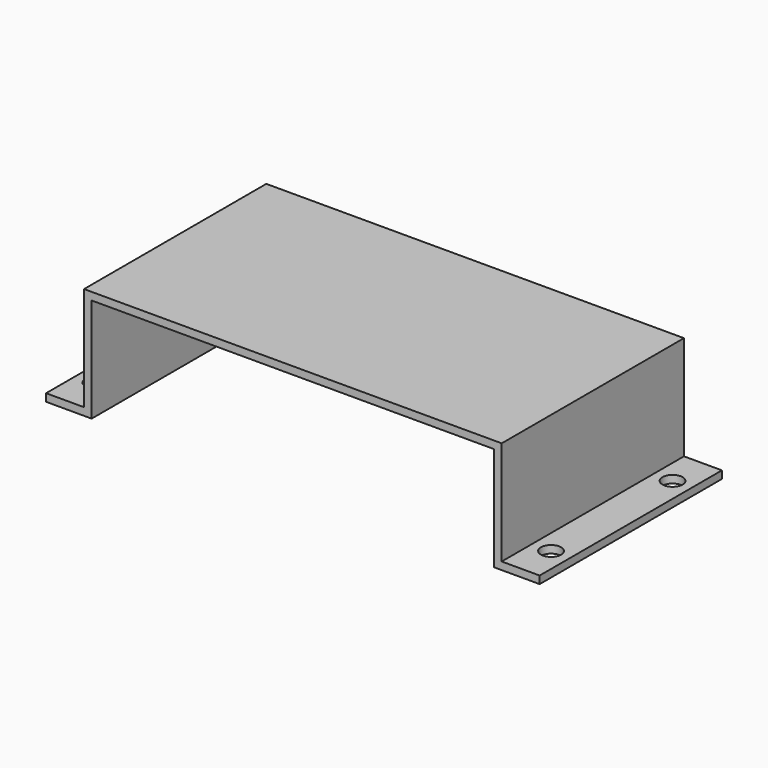
from build123d import *

# Parameters (mm, degrees)
F1_DEPTH = 76.2
F3_D     = 6.7564


with BuildPart() as f1:
    # F0 (on Front) → F1 (new body)
    with BuildSketch(Plane.XZ):
        Polygon((0, 2.54), (0, 0), (15.24, 0), (15.24, 34.798), (149.86, 34.798), (149.86, 0), (165.1, 0), (165.1, 2.54), (152.4, 2.54), (152.4, 37.338), (12.7, 37.338), (12.7, 2.54), align=None)
    extrude(amount=-F1_DEPTH)

    # F3 (through all)
    with Locations(Plane.XY.offset(2.54)):
        with Locations((158.75, 63.5), (158.75, 12.7), (6.35, 12.7), (6.35, 63.5)):
            Hole(F3_D / 2)


solid = f1.part
